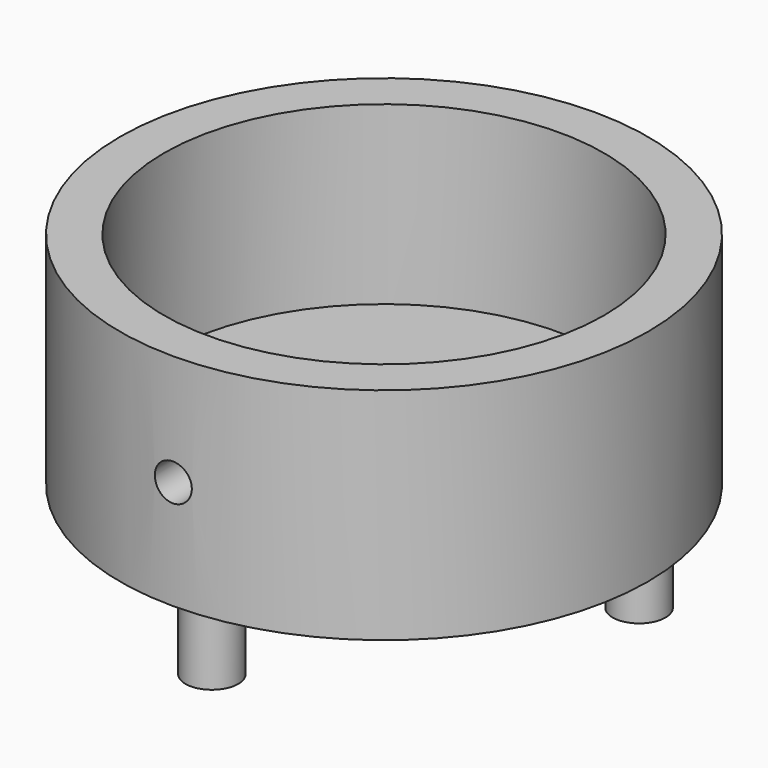
from build123d import *

# Parameters (mm, degrees)
F0_R     = 30
F0_R_2   = 25
F1_DEPTH = 25
F2_R     = 30
F3_DEPTH = 5
F4_R     = 3
F5_DEPTH = 10
F9_D     = 4.2
F9_DEPTH = 12


with BuildPart() as f1:
    # F0 (on Top) → F1 (new body)
    with BuildSketch(Plane.XY):
        Circle(F0_R)
        Circle(F0_R_2, mode=Mode.SUBTRACT)
    extrude(amount=F1_DEPTH)

    # F2 (on Top) → F3 (join)
    with BuildSketch(Plane.XY):
        Circle(F2_R)
    extrude(amount=F3_DEPTH)

    # F4 (on face) → F5 (join)
    with BuildSketch(Plane.XY):
        with Locations((-1.107393, -23.067445)):
            Circle(F4_R)
        with Locations((-19.423297, 12.492753)):
            Circle(F4_R)
        with Locations((20.53069, 10.574692)):
            Circle(F4_R)
    extrude(amount=-F5_DEPTH)

    # F9
    with Locations(Plane.XZ.offset(30)):
        with Locations((0, 12.374512)):
            Hole(F9_D / 2, depth=F9_DEPTH)


solid = f1.part
